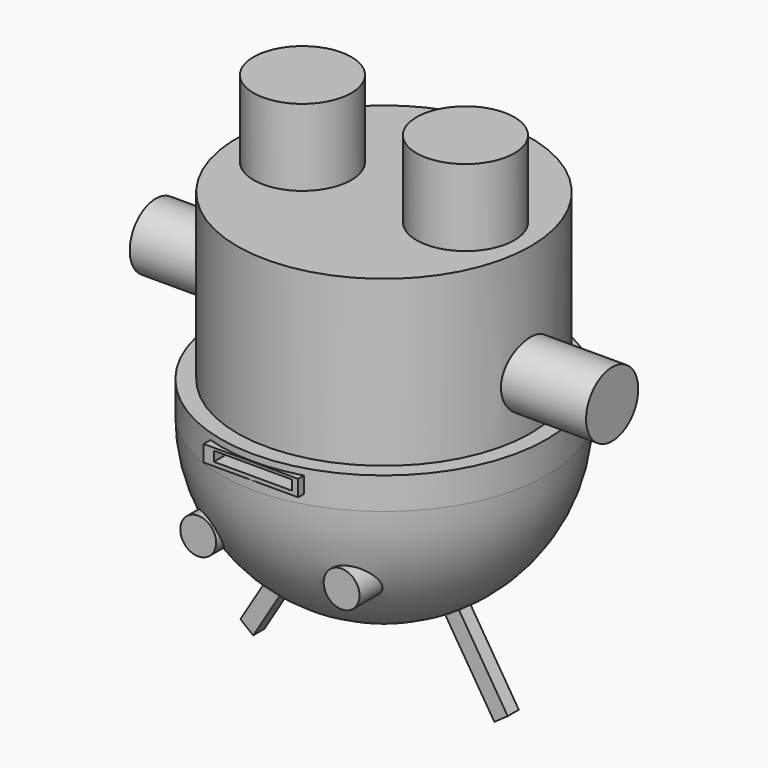
from build123d import *

# Parameters (mm, degrees)
F0_R          = 15
F3_DEPTH      = 30
F1_R          = 45
F4_DEPTH      = 50
F4_DEPTH_BACK = 6.5
F5_START      = -44
F2_R          = 50
F5_DEPTH      = 9.75
F6_R          = 10
F7_DEPTH      = 70
F8_R          = 10
F9_DEPTH      = 70
F12_R         = 5.5
F13_DEPTH     = 43.75
F15_DEPTH     = 4.25
F16_W         = 29
F16_H         = 5
F17_DEPTH     = 50.25
F18_W         = 24
F18_H         = 3
F19_DEPTH     = 52


with BuildPart() as f3:
    # F0 (on Top) → F3 (new body)
    with BuildSketch(Plane.XY):
        with Locations((-25, 0)):
            Circle(F0_R)
    extrude(amount=F3_DEPTH)


with BuildPart() as f3b:
    # F0 (on Top) → F3, piece 2 (new body)
    with BuildSketch(Plane.XY):
        with Locations((25, 0)):
            Circle(F0_R)
    extrude(amount=F3_DEPTH)


with BuildPart() as f4:
    # F1 (on Top) → F4 (new body, two sides)
    with BuildSketch(Plane.XY) as f4_sk:
        Circle(F1_R)
    extrude(amount=-F4_DEPTH)
    extrude(f4_sk.sketch, amount=F4_DEPTH_BACK)

    # F2 (on Top) → F5 (join)
    with BuildSketch(Plane.XY.offset(F5_START)):
        Circle(F2_R)
    extrude(amount=-F5_DEPTH)

    # F6 (on Right) → F7 (join)
    with BuildSketch(Plane.YZ):
        with Locations((0, -28)):
            Circle(F6_R)
    extrude(amount=F7_DEPTH)

    # F8 (on Right) → F9 (join)
    with BuildSketch(Plane.YZ):
        with Locations((0, -28)):
            Circle(F8_R)
    extrude(amount=-F9_DEPTH)

    # F10 (on Front) → F11 (revolve)
    with BuildSketch(Plane.XZ):
        with BuildLine():
            Line((0, -53.75), (0, -103.75))
            ThreePointArc((0, -103.75), (35.3553390593, -89.1053390593), (50, -53.75))
            Line((50, -53.75), (0, -53.75))
        make_face()
    revolve(axis=Axis((0, 0, -78.75), (0, 0, -1)))

    # F12 (on Front) → F13 (join)
    with BuildSketch(Plane.XZ):
        with Locations((22, -75.75)):
            Circle(F12_R)
        with Locations((-22, -75.75)):
            Circle(F12_R)
    extrude(amount=F13_DEPTH)

    # F14 (on Front) → F15 (join)
    with BuildSketch(Plane.XZ):
        Polygon((37.273382177, -122.7384150805), (41.3573574255, -119.8537753855), (25.9457886256, -95.2878732623), (21.5874810644, -97.7384150805), align=None)
        Polygon((-40.6426425745, -120.3244923925), (-36.726617823, -123.4333105193), (-21.49733765, -98.4333105193), (-25.5781691914, -95.5442252089), align=None)
    extrude(amount=F15_DEPTH)

    # F16 (on Front) → F17 (join)
    with BuildSketch(Plane.XZ):
        with Locations((-0.6209718995, -48.5)):
            Rectangle(F16_W, F16_H)
    extrude(amount=F17_DEPTH)

    # F18 (on Front) → F19 (cut)
    with BuildSketch(Plane.XZ):
        with Locations((0, -48.3026781332)):
            Rectangle(F18_W, F18_H)
    extrude(amount=F19_DEPTH, mode=Mode.SUBTRACT)


solid = Compound([f3.part, f3b.part, f4.part])
